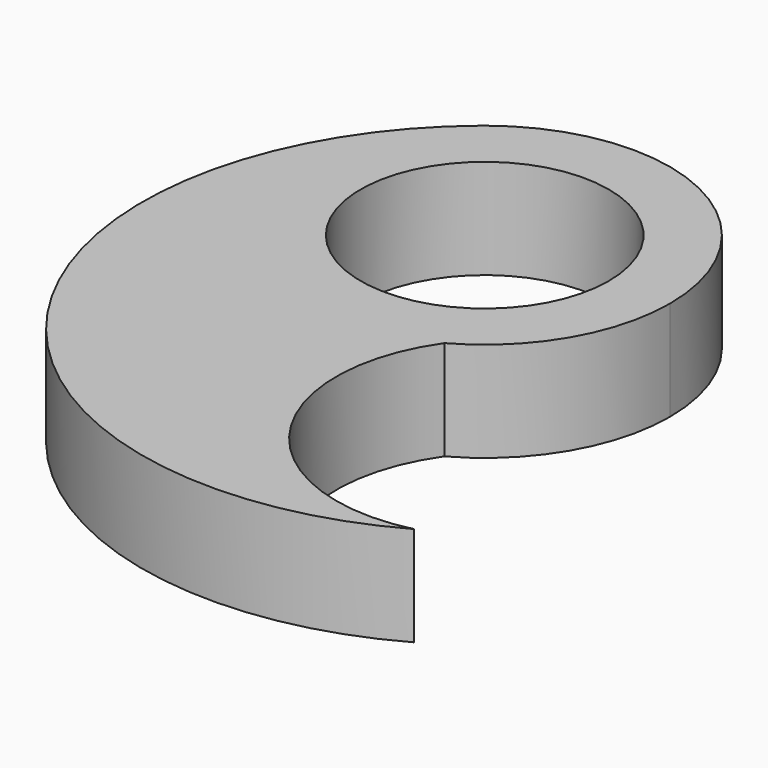
from build123d import *

# Parameters (mm, degrees)
F0_R     = 9.953913
F2_DEPTH = 8


with BuildPart() as f2:
    # F0 (on Top) → F2 (new body)
    with BuildSketch(Plane.XY):
        with BuildLine():
            ThreePointArc((29.868933, 7.770019), (35.48766, 13.226767), (37.551685, 20.782295))
            ThreePointArc((37.551685, 20.782295), (29.148663, 34.166644), (13.442543, 32.414685))
            ThreePointArc((13.442543, 32.414685), (13.34143, 32.333237), (13.240702, 32.251313))
            ThreePointArc((13.240702, 32.251313), (10.397613, 12.432448), (29.868933, 7.770019))
        make_face()
        with Locations((22.690865, 20.782295)):
            Circle(F0_R, mode=Mode.SUBTRACT)
        with BuildLine():
            ThreePointArc((44.149149, -13.117656), (29.767923, -7.624333), (29.868933, 7.770019))
            ThreePointArc((29.868933, 7.770019), (10.397613, 12.432448), (13.240702, 32.251313))
            ThreePointArc((13.240702, 32.251313), (7.905379, -4.596433), (44.149149, -13.117656))
        make_face()
    extrude(amount=F2_DEPTH)


solid = f2.part
